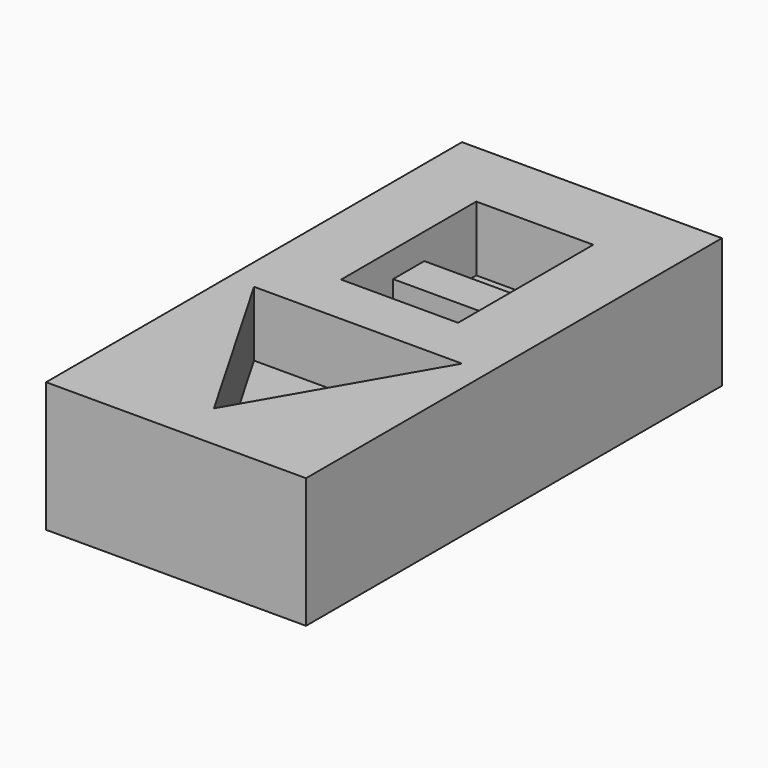
from build123d import *

# Parameters (mm, degrees)
F0_W     = 10
F0_H     = 10
F1_DEPTH = 5
F3_DEPTH = 10
F2_W     = 4.5
F2_H     = 6.5
F4_DEPTH = 2.5
F6_DEPTH = 2.5
F7_W     = 4.5
F7_H     = 1.5
F8_DEPTH = 1.5


with BuildPart() as f1:
    # F0 (on Top) → F1 (new body)
    with BuildSketch(Plane.XY):
        with Locations((0, -1.2614674985)):
            Rectangle(F0_W, F0_H)
    extrude(amount=F1_DEPTH)

    # F3 (add): a face of the model
    f3_faces = [f1.faces().sort_by_distance(p)[0] for p in [
        (0, -6.2614674985, 2.5),
    ]]
    extrude(f3_faces, amount=F3_DEPTH)

    # F2 (on face) → F4 (cut)
    with BuildSketch(Plane.XY.offset(5)):
        with Locations((0, -2.2614674985)):
            Rectangle(F2_W, F2_H)
    extrude(amount=-F4_DEPTH, mode=Mode.SUBTRACT)

    # F5 (on face) → F6 (cut)
    with BuildSketch(Plane.XY.offset(5)):
        Polygon((-4, -7.5114674985), (0, -14.4396707288), (4, -7.5114674985), align=None)
    extrude(amount=-F6_DEPTH, mode=Mode.SUBTRACT)

    # F7 (on face) → F8 (join)
    with BuildSketch(Plane.XY.offset(2.5)):
        with Locations((0, -2.2614674985)):
            Rectangle(F7_W, F7_H)
    extrude(amount=F8_DEPTH)


solid = f1.part
